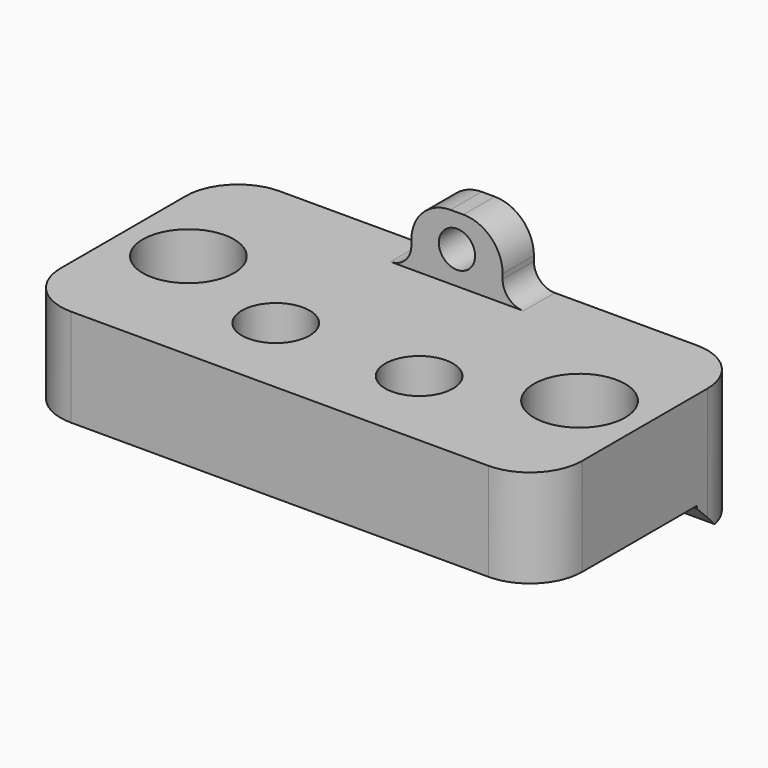
from build123d import *

# Parameters (mm, degrees)
SKETCH_W        = 50.8
SKETCH_H        = 25.4
SKETCH_R        = 1.27
SKETCH_W_2      = 6.35
SKETCH_H_2      = 0.762
PAD_DEPTH       = 1.905
SKETCH001_W     = 50.8
SKETCH001_H     = 25.4
PAD001_DEPTH    = 7.62
SKETCH002_R     = 3.302
SKETCH002_R_2   = 4.445
POCKET_DEPTH    = 7.62
SKETCH003_W     = 50.8
SKETCH003_H     = 6.35
PAD002_DEPTH    = 2.54
SKETCH004_W     = 8.89
SKETCH004_H     = 3.81
PAD003_DEPTH    = 6.35
SKETCH005_R     = 1.7653
POCKET001_DEPTH = 5.08
FILLET_R        = 5.08
FILLET001_R     = 2.032
FILLET002_R     = 3.81
CHAMFER_SIZE    = 2.286


with BuildPart() as part:
    # Sketch → Pad (new body)
    with BuildSketch(Plane.XY):
        Rectangle(SKETCH_W, SKETCH_H)
        with Locations((-19.05, 0)):
            Circle(SKETCH_R, mode=Mode.SUBTRACT)
        with Locations((19.05, 0)):
            Circle(SKETCH_R, mode=Mode.SUBTRACT)
        with Locations((6.985, -4.826)):
            Rectangle(SKETCH_W_2, SKETCH_H_2, mode=Mode.SUBTRACT)
        with Locations((-6.985, -4.826)):
            Rectangle(SKETCH_W_2, SKETCH_H_2, mode=Mode.SUBTRACT)
    extrude(amount=PAD_DEPTH)

    # Sketch001 (on Face16 of Pad) → Pad001 (join)
    with BuildSketch(Plane.XY.offset(1.905)):
        Rectangle(SKETCH001_W, SKETCH001_H)
    extrude(amount=PAD001_DEPTH)

    # Sketch002 (on Face17 of Pad001) → Pocket (cut)
    with BuildSketch(Plane.XY.offset(9.525)):
        with Locations((-6.985, -4.445)):
            Circle(SKETCH002_R)
        with Locations((6.985, -4.445)):
            Circle(SKETCH002_R)
        with Locations((19.05, 0)):
            Circle(SKETCH002_R_2)
        with Locations((-19.05, 0)):
            Circle(SKETCH002_R_2)
    extrude(amount=-POCKET_DEPTH, mode=Mode.SUBTRACT)

    # Sketch003 (on Face1 of Pocket) → Pad002 (join)
    with BuildSketch(Plane(origin=(0, 0, 0), x_dir=(1, 0, 0), z_dir=(0, 0, -1))):
        with Locations((0, -9.525)):
            Rectangle(SKETCH003_W, SKETCH003_H)
    extrude(amount=PAD002_DEPTH)

    # Sketch004 (on Face15 of Pad002) → Pad003 (join)
    with BuildSketch(Plane.XY.offset(9.525)):
        with Locations((0, 10.795)):
            Rectangle(SKETCH004_W, SKETCH004_H)
    extrude(amount=PAD003_DEPTH)

    # Sketch005 (on Face23 of Pad003) → Pocket001 (cut)
    with BuildSketch(Plane.XZ.offset(-8.89)):
        with Locations((0, 12.7)):
            Circle(SKETCH005_R)
    extrude(amount=-POCKET001_DEPTH, mode=Mode.SUBTRACT)

    # Fillet
    fillet_edges = [part.edges().sort_by_distance(p)[0] for p in [
        (25.4, 12.7, 3.4925),
        (-25.4, 12.7, 3.4925),
        (25.4, -12.7, 4.7625),
        (-25.4, -12.7, 4.7625),
    ]]
    fillet(fillet_edges, radius=FILLET_R)

    # Fillet001
    fillet001_edges = [part.edges().sort_by_distance(p)[0] for p in [
        (4.445, 10.795, 9.525),
        (-4.445, 10.795, 9.525),
    ]]
    fillet(fillet001_edges, radius=FILLET001_R)

    # Fillet002
    fillet002_edges = [part.edges().sort_by_distance(p)[0] for p in [
        (-4.445, 10.795, 15.875),
        (4.445, 10.795, 15.875),
    ]]
    fillet(fillet002_edges, radius=FILLET002_R)

    # Chamfer
    chamfer_edges = [part.edges().sort_by_distance(p)[0] for p in [
        (0, 6.35, -2.54),
    ]]
    chamfer(chamfer_edges, length=CHAMFER_SIZE)


solid = part.part
